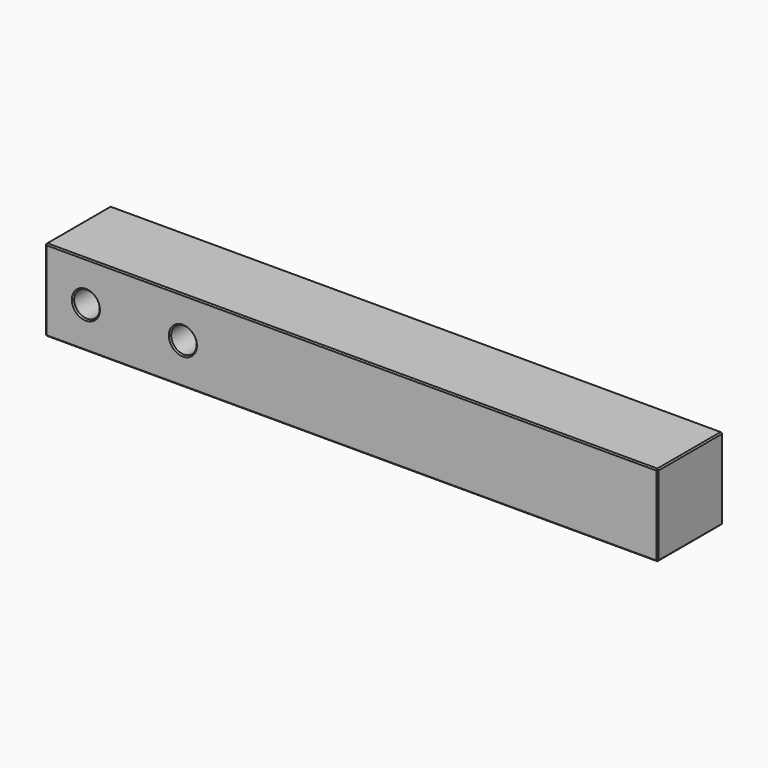
from build123d import *

# Parameters (mm, degrees)
F0_W     = 120
F0_H     = 16
F1_DEPTH = 16
F3_D     = 5
F3_DEPTH = 14
F3_TIP   = 1.5021515476
F4_SIZE  = 0.25


with BuildPart() as f1:
    # F0 (on Front) → F1 (new body)
    with BuildSketch(Plane.XZ):
        with Locations((15.7382229716, -3.3073185302)):
            Rectangle(F0_W, F0_H)
    extrude(amount=F1_DEPTH)

    # F3
    with Locations(Plane.XZ.offset(16)):
        with Locations((-17.2617770284, -3.3073185302), (-36.2617770284, -3.3073185302)):
            Hole(F3_D / 2, depth=F3_DEPTH)
            with Locations((0, 0, -(F3_DEPTH + F3_TIP / 2))):  # 118° drill point
                Cone(0, F3_D / 2, F3_TIP, mode=Mode.SUBTRACT)

    # F4
    f4_edges = [f1.edges().sort_by_distance(p)[0] for p in [
        (75.738223, -8, 4.692681),
        (-44.261777, -8, 4.692681),
        (15.738223, 0, 4.692681),
        (15.738223, -16, 4.692681),
        (75.738223, -16, -3.307319),
        (15.738223, -16, -11.307319),
        (-44.261777, -16, -3.307319),
        (-38.761777, -16, -3.307319),
        (-19.761777, -16, -3.307319),
        (-44.261777, -8, -11.307319),
        (-44.261777, 0, -3.307319),
        (75.738223, 0, -3.307319),
        (15.738223, 0, -11.307319),
        (75.738223, -8, -11.307319),
    ]]
    chamfer(f4_edges, length=F4_SIZE)


solid = f1.part
